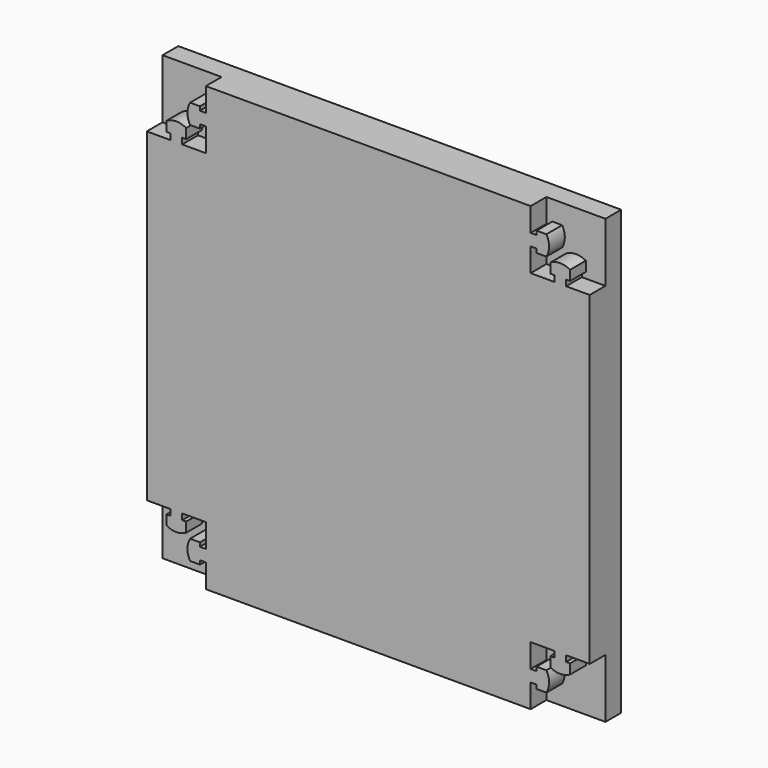
from build123d import *

# Parameters (mm, degrees)
F1_DEPTH = 40
F3_DEPTH = 40
F5_DEPTH = 20


with BuildPart() as f1:
    # F0 (on Front) → F1 (new body)
    with BuildSketch(Plane.XZ):
        Polygon((165, 165), (165, 225), (-165, 225), (-165, 165), (-225, 165), (-225, -165), (-165, -165), (-165, -225), (165, -225), (165, -165), (225, -165), (225, 165), align=None)
    extrude(amount=F1_DEPTH)

    # F2 (on face) → F3 (join, through all)
    with BuildSketch(Plane.XZ.offset(40)):
        with BuildLine():
            Line((-201, 171), (-201, 165))
            Line((-201, 165), (-189, 165))
            Line((-189, 165), (-189, 171))
            Line((-189, 171), (-185, 171))
            Line((-185, 171), (-185, 181))
            ThreePointArc((-185, 181), (-195, 183.6794919243), (-205, 181))
            Line((-205, 181), (-205, 171))
            Line((-205, 171), (-201, 171))
        make_face()
        with BuildLine():
            Line((-171, 189), (-165, 189))
            Line((-165, 189), (-165, 201))
            Line((-165, 201), (-171, 201))
            Line((-171, 201), (-171, 205))
            Line((-171, 205), (-181, 205))
            ThreePointArc((-181, 205), (-183.6794919243, 195), (-181, 185))
            Line((-181, 185), (-171, 185))
            Line((-171, 185), (-171, 189))
        make_face()
        with BuildLine():
            Line((171, 201), (165, 201))
            Line((165, 201), (165, 189))
            Line((165, 189), (171, 189))
            Line((171, 189), (171, 185))
            Line((171, 185), (181, 185))
            ThreePointArc((181, 185), (183.6794919243, 195), (181, 205))
            Line((181, 205), (171, 205))
            Line((171, 205), (171, 201))
        make_face()
        with BuildLine():
            Line((189, 171), (189, 165))
            Line((189, 165), (201, 165))
            Line((201, 165), (201, 171))
            Line((201, 171), (205, 171))
            Line((205, 171), (205, 181))
            ThreePointArc((205, 181), (195, 183.6794919243), (185, 181))
            Line((185, 181), (185, 171))
            Line((185, 171), (189, 171))
        make_face()
        with BuildLine():
            Line((201, -165), (189, -165))
            Line((189, -165), (189, -171))
            Line((189, -171), (185, -171))
            Line((185, -171), (185, -181))
            ThreePointArc((185, -181), (195, -183.6794919243), (205, -181))
            Line((205, -181), (205, -171))
            Line((205, -171), (201, -171))
            Line((201, -171), (201, -165))
        make_face()
        with BuildLine():
            Line((165, -189), (165, -201))
            Line((165, -201), (171, -201))
            Line((171, -201), (171, -205))
            Line((171, -205), (181, -205))
            ThreePointArc((181, -205), (183.6794919243, -195), (181, -185))
            Line((181, -185), (171, -185))
            Line((171, -185), (171, -189))
            Line((171, -189), (165, -189))
        make_face()
        with BuildLine():
            Line((-165, -201), (-165, -189))
            Line((-165, -189), (-171, -189))
            Line((-171, -189), (-171, -185))
            Line((-171, -185), (-181, -185))
            ThreePointArc((-181, -185), (-183.6794919243, -195), (-181, -205))
            Line((-181, -205), (-171, -205))
            Line((-171, -205), (-171, -201))
            Line((-171, -201), (-165, -201))
        make_face()
        with BuildLine():
            Line((-189, -165), (-201, -165))
            Line((-201, -165), (-201, -171))
            Line((-201, -171), (-205, -171))
            Line((-205, -171), (-205, -181))
            ThreePointArc((-205, -181), (-195, -183.6794919243), (-185, -181))
            Line((-185, -181), (-185, -171))
            Line((-185, -171), (-189, -171))
            Line((-189, -171), (-189, -165))
        make_face()
    extrude(amount=-F3_DEPTH)

    # F4 (on face) → F5 (join)
    with BuildSketch(Plane(origin=(0, 0, 0), x_dir=(-1, 0, 0), z_dir=(0, 1, 0))):
        Polygon((165, 201), (165, 225), (-165, 225), (-165, 201), (-165, 189), (-165, 165), (-189, 165), (-201, 165), (-225, 165), (-225, -165), (-201, -165), (-189, -165), (-165, -165), (-165, -189), (-165, -201), (-165, -225), (165, -225), (165, -201), (165, -189), (165, -165), (189, -165), (201, -165), (225, -165), (225, 165), (201, 165), (189, 165), (165, 165), (165, 189), align=None)
        with BuildLine():
            Line((225, -225), (225, -165))
            Line((225, -165), (201, -165))
            Line((201, -165), (201, -171))
            Line((201, -171), (205, -171))
            Line((205, -171), (205, -181))
            ThreePointArc((205, -181), (195, -183.6794919243), (185, -181))
            Line((185, -181), (185, -171))
            Line((185, -171), (189, -171))
            Line((189, -171), (189, -165))
            Line((189, -165), (165, -165))
            Line((165, -165), (165, -189))
            Line((165, -189), (171, -189))
            Line((171, -189), (171, -185))
            Line((171, -185), (181, -185))
            ThreePointArc((181, -185), (183.6794919243, -195), (181, -205))
            Line((181, -205), (171, -205))
            Line((171, -205), (171, -201))
            Line((171, -201), (165, -201))
            Line((165, -201), (165, -225))
            Line((165, -225), (225, -225))
        make_face()
        with BuildLine():
            Line((-201, -165), (-225, -165))
            Line((-225, -165), (-225, -225))
            Line((-225, -225), (-165, -225))
            Line((-165, -225), (-165, -201))
            Line((-165, -201), (-171, -201))
            Line((-171, -201), (-171, -205))
            Line((-171, -205), (-181, -205))
            ThreePointArc((-181, -205), (-183.6794919243, -195), (-181, -185))
            Line((-181, -185), (-171, -185))
            Line((-171, -185), (-171, -189))
            Line((-171, -189), (-165, -189))
            Line((-165, -189), (-165, -165))
            Line((-165, -165), (-189, -165))
            Line((-189, -165), (-189, -171))
            Line((-189, -171), (-185, -171))
            Line((-185, -171), (-185, -181))
            ThreePointArc((-185, -181), (-195, -183.6794919243), (-205, -181))
            Line((-205, -181), (-205, -171))
            Line((-205, -171), (-201, -171))
            Line((-201, -171), (-201, -165))
        make_face()
        with BuildLine():
            Line((-165, 201), (-165, 225))
            Line((-165, 225), (-225, 225))
            Line((-225, 225), (-225, 165))
            Line((-225, 165), (-201, 165))
            Line((-201, 165), (-201, 171))
            Line((-201, 171), (-205, 171))
            Line((-205, 171), (-205, 181))
            ThreePointArc((-205, 181), (-195, 183.6794919243), (-185, 181))
            Line((-185, 181), (-185, 171))
            Line((-185, 171), (-189, 171))
            Line((-189, 171), (-189, 165))
            Line((-189, 165), (-165, 165))
            Line((-165, 165), (-165, 189))
            Line((-165, 189), (-171, 189))
            Line((-171, 189), (-171, 185))
            Line((-171, 185), (-181, 185))
            ThreePointArc((-181, 185), (-183.6794919243, 195), (-181, 205))
            Line((-181, 205), (-171, 205))
            Line((-171, 205), (-171, 201))
            Line((-171, 201), (-165, 201))
        make_face()
        with BuildLine():
            Line((225, 165), (225, 225))
            Line((225, 225), (165, 225))
            Line((165, 225), (165, 201))
            Line((165, 201), (171, 201))
            Line((171, 201), (171, 205))
            Line((171, 205), (181, 205))
            ThreePointArc((181, 205), (183.6794919243, 195), (181, 185))
            Line((181, 185), (171, 185))
            Line((171, 185), (171, 189))
            Line((171, 189), (165, 189))
            Line((165, 189), (165, 165))
            Line((165, 165), (189, 165))
            Line((189, 165), (189, 171))
            Line((189, 171), (185, 171))
            Line((185, 171), (185, 181))
            ThreePointArc((185, 181), (195, 183.6794919243), (205, 181))
            Line((205, 181), (205, 171))
            Line((205, 171), (201, 171))
            Line((201, 171), (201, 165))
            Line((201, 165), (225, 165))
        make_face()
    extrude(amount=-F5_DEPTH)


solid = f1.part
